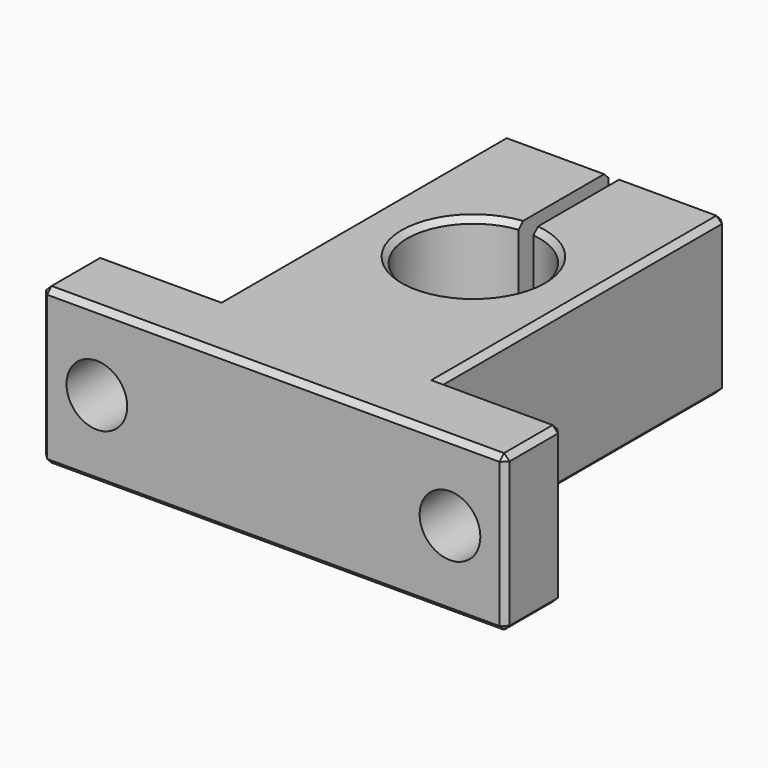
from build123d import *

# Parameters (mm, degrees)
F1_DEPTH = 14.1
F2_R     = 2.75
F3_DEPTH = 38.801
F4_SIZE  = 0.5


with BuildPart() as f1:
    # F0 (on Top) → F1 (new body)
    with BuildSketch(Plane.XY):
        with BuildLine():
            ThreePointArc((0.675, 4.81191), (0, -7.15), (-0.675, 4.81191))
            Line((-0.675, 4.81191), (-0.675, 15))
            Line((-0.675, 15), (-10, 15))
            Line((-10, 15), (-10, -17.3))
            Line((-10, -17.3), (-21, -17.3))
            Line((-21, -17.3), (-21, -23.8))
            Line((-21, -23.8), (21, -23.8))
            Line((21, -23.8), (21, -17.3))
            Line((21, -17.3), (10, -17.3))
            Line((10, -17.3), (10, 15))
            Line((10, 15), (0.675, 15))
            Line((0.675, 15), (0.675, 4.81191))
        make_face()
    extrude(amount=F1_DEPTH)

    # F2 (on face) → F3 (cut, through all)
    with BuildSketch(Plane.XZ.offset(23.8)):
        with Locations((16, 7.05)):
            Circle(F2_R)
        with Locations((-16, 7.05)):
            Circle(F2_R)
    extrude(amount=-F3_DEPTH, mode=Mode.SUBTRACT)

    # F4
    f4_edges = [f1.edges().sort_by_distance(p)[0] for p in [
        (10, -1.15, 14.1),
        (15.5, -17.3, 14.1),
        (21, -20.55, 14.1),
        (21, -17.3, 7.05),
        (21, -23.8, 7.05),
        (21, -20.55, 0),
        (0, -23.8, 14.1),
        (-15.5, -17.3, 14.1),
        (-21, -20.55, 14.1),
        (-10, -1.15, 14.1),
        (-5.3375, 15, 14.1),
        (5.3375, 15, 14.1),
        (0, -7.15, 14.1),
        (-21, -17.3, 7.05),
        (-21, -23.8, 7.05),
        (-21, -20.55, 0),
        (-15.5, -17.3, 0),
        (-10, -1.15, 0),
        (0, -23.8, 0),
        (0, -7.15, 0),
        (-10, 15, 7.05),
        (-5.3375, 15, 0),
        (5.3375, 15, 0),
        (10, -1.15, 0),
        (15.5, -17.3, 0),
        (10, 15, 7.05),
    ]]
    chamfer(f4_edges, length=F4_SIZE)


solid = f1.part
